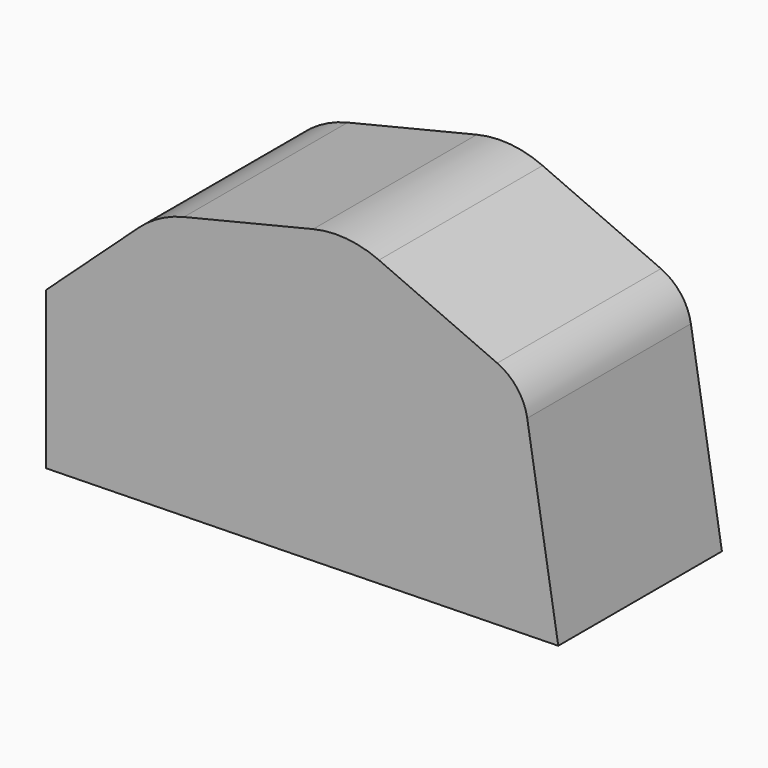
from build123d import *

# Parameters (mm, degrees)
F1_DEPTH      = 25.146
F1_DEPTH_BACK = 25.4
F2_R          = 12.7
F3_R          = 25.4
F4_W          = 43.2194133058
F4_H          = 25.146
F5_DEPTH      = 25.4


with BuildPart() as f1:
    # F0 (on Front) → F1 (new body, two sides)
    with BuildSketch(Plane.XZ) as f1_sk:
        Polygon((-59.228181839, 16.3945462555), (-59.228181839, -22.3981812596), (67.3100054264, -19.8581814766), (58.5354566574, 33.9436382055), (15.12454357, 53.1090945005), (-31.5190926194, 41.7945459485), align=None)
    extrude(amount=F1_DEPTH)
    extrude(f1_sk.sketch, amount=-F1_DEPTH_BACK)

    # F2
    f2_edges = [f1.edges().sort_by_distance(p)[0] for p in [
        (58.535457, 0.127, 33.943638),
    ]]
    fillet(f2_edges, radius=F2_R)

    # F3
    f3_edges = [f1.edges().sort_by_distance(p)[0] for p in [
        (-31.519093, 0.127, 41.794546),
        (15.124544, 0.127, 53.109095),
    ]]
    fillet(f3_edges, radius=F3_R)

    # F4 (on face) → F5 (cut)
    with BuildSketch(Plane(origin=(0.4255624903, 0, -21.200752239), x_dir=(0.9997985984, 0, 0.0200689474), z_dir=(0.0200689474, 0, -0.9997985984))):
        with Locations((3.2696425915, -0.127)):
            Rectangle(F4_W, F4_H)
    extrude(amount=-F5_DEPTH, mode=Mode.SUBTRACT)


solid = f1.part
